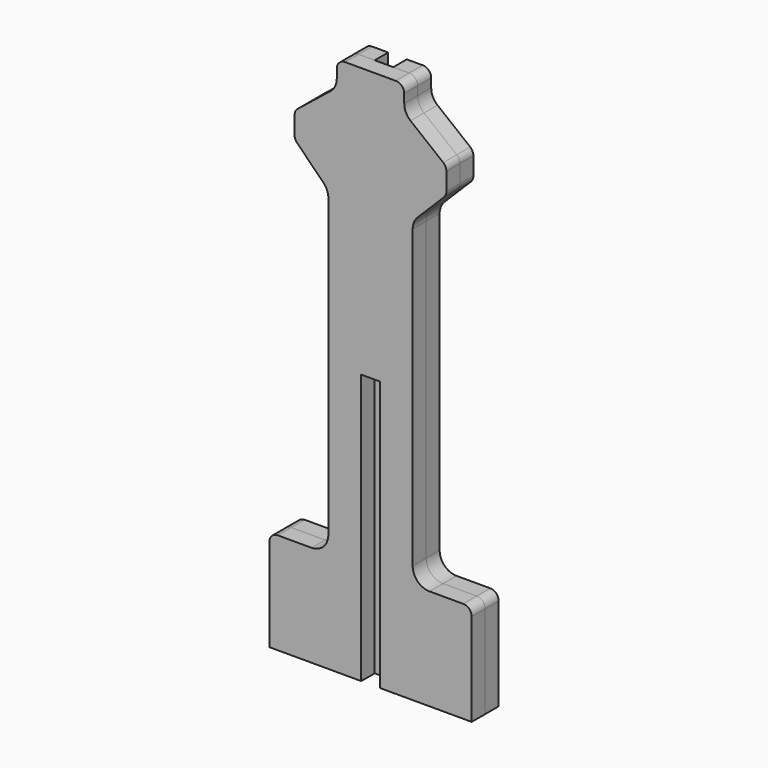
from build123d import *

# Parameters (mm, degrees)
F0_W     = 11
F0_H     = 160
F1_DEPTH = 10
F2_DEPTH = 10


with BuildPart() as f1:
    # F0 (on Front) → F1 (new body)
    with BuildSketch(Plane.XZ):
        with BuildLine():
            Line((-60, -30), (-5.5, -30))
            Line((-5.5, -30), (-5.5, 130))
            Line((-5.5, 130), (-5.5, 290))
            Line((-5.5, 290), (-15, 290))
            ThreePointArc((-15, 290), (-18.535534, 288.535534), (-20, 285))
            Line((-20, 285), (-20, 279.806248))
            ThreePointArc((-20, 279.806248), (-20.986968, 275.474361), (-23.75305, 271.99756))
            Line((-23.75305, 271.99756), (-43.123475, 256.50122))
            ThreePointArc((-43.123475, 256.50122), (-44.506516, 254.762819), (-45, 252.596876))
            Line((-45, 252.596876), (-45, 242.071068))
            ThreePointArc((-45, 242.071068), (-44.619398, 240.157651), (-43.535534, 238.535534))
            Line((-43.535534, 238.535534), (-27.928932, 222.928932))
            ThreePointArc((-27.928932, 222.928932), (-25.761205, 219.684699), (-25, 215.857864))
            Line((-25, 215.857864), (-25, 40))
            ThreePointArc((-25, 40), (-27.928932, 32.928932), (-35, 30))
            Line((-35, 30), (-55, 30))
            ThreePointArc((-55, 30), (-58.535534, 28.535534), (-60, 25))
            Line((-60, 25), (-60, -30))
        make_face()
        with BuildLine():
            ThreePointArc((60, 25), (58.535534, 28.535534), (55, 30))
            Line((55, 30), (35, 30))
            ThreePointArc((35, 30), (27.928932, 32.928932), (25, 40))
            Line((25, 40), (25, 215.857864))
            ThreePointArc((25, 215.857864), (25.761205, 219.684699), (27.928932, 222.928932))
            Line((27.928932, 222.928932), (43.535534, 238.535534))
            ThreePointArc((43.535534, 238.535534), (44.619398, 240.157651), (45, 242.071068))
            Line((45, 242.071068), (45, 252.596876))
            ThreePointArc((45, 252.596876), (44.506516, 254.762819), (43.123475, 256.50122))
            Line((43.123475, 256.50122), (23.75305, 271.99756))
            ThreePointArc((23.75305, 271.99756), (20.986968, 275.474361), (20, 279.806248))
            Line((20, 279.806248), (20, 285))
            ThreePointArc((20, 285), (18.535534, 288.535534), (15, 290))
            Line((15, 290), (5.5, 290))
            Line((5.5, 290), (5.5, 130))
            Line((5.5, 130), (5.5, -30))
            Line((5.5, -30), (60, -30))
            Line((60, -30), (60, 25))
        make_face()
        with Locations((0, 210)):
            Rectangle(F0_W, F0_H)
    extrude(amount=F1_DEPTH)


with BuildPart() as f2:
    # F0 (on Front) → F2 (new body)
    with BuildSketch(Plane.XZ):
        with BuildLine():
            Line((-60, -30), (-5.5, -30))
            Line((-5.5, -30), (-5.5, 130))
            Line((-5.5, 130), (-5.5, 290))
            Line((-5.5, 290), (-15, 290))
            ThreePointArc((-15, 290), (-18.535534, 288.535534), (-20, 285))
            Line((-20, 285), (-20, 279.806248))
            ThreePointArc((-20, 279.806248), (-20.986968, 275.474361), (-23.75305, 271.99756))
            Line((-23.75305, 271.99756), (-43.123475, 256.50122))
            ThreePointArc((-43.123475, 256.50122), (-44.506516, 254.762819), (-45, 252.596876))
            Line((-45, 252.596876), (-45, 242.071068))
            ThreePointArc((-45, 242.071068), (-44.619398, 240.157651), (-43.535534, 238.535534))
            Line((-43.535534, 238.535534), (-27.928932, 222.928932))
            ThreePointArc((-27.928932, 222.928932), (-25.761205, 219.684699), (-25, 215.857864))
            Line((-25, 215.857864), (-25, 40))
            ThreePointArc((-25, 40), (-27.928932, 32.928932), (-35, 30))
            Line((-35, 30), (-55, 30))
            ThreePointArc((-55, 30), (-58.535534, 28.535534), (-60, 25))
            Line((-60, 25), (-60, -30))
        make_face()
        with BuildLine():
            ThreePointArc((60, 25), (58.535534, 28.535534), (55, 30))
            Line((55, 30), (35, 30))
            ThreePointArc((35, 30), (27.928932, 32.928932), (25, 40))
            Line((25, 40), (25, 215.857864))
            ThreePointArc((25, 215.857864), (25.761205, 219.684699), (27.928932, 222.928932))
            Line((27.928932, 222.928932), (43.535534, 238.535534))
            ThreePointArc((43.535534, 238.535534), (44.619398, 240.157651), (45, 242.071068))
            Line((45, 242.071068), (45, 252.596876))
            ThreePointArc((45, 252.596876), (44.506516, 254.762819), (43.123475, 256.50122))
            Line((43.123475, 256.50122), (23.75305, 271.99756))
            ThreePointArc((23.75305, 271.99756), (20.986968, 275.474361), (20, 279.806248))
            Line((20, 279.806248), (20, 285))
            ThreePointArc((20, 285), (18.535534, 288.535534), (15, 290))
            Line((15, 290), (5.5, 290))
            Line((5.5, 290), (5.5, 130))
            Line((5.5, 130), (5.5, -30))
            Line((5.5, -30), (60, -30))
            Line((60, -30), (60, 25))
        make_face()
        with Locations((0, 50)):
            Rectangle(F0_W, F0_H)
    extrude(amount=-F2_DEPTH)


solid = Compound([f1.part, f2.part])
